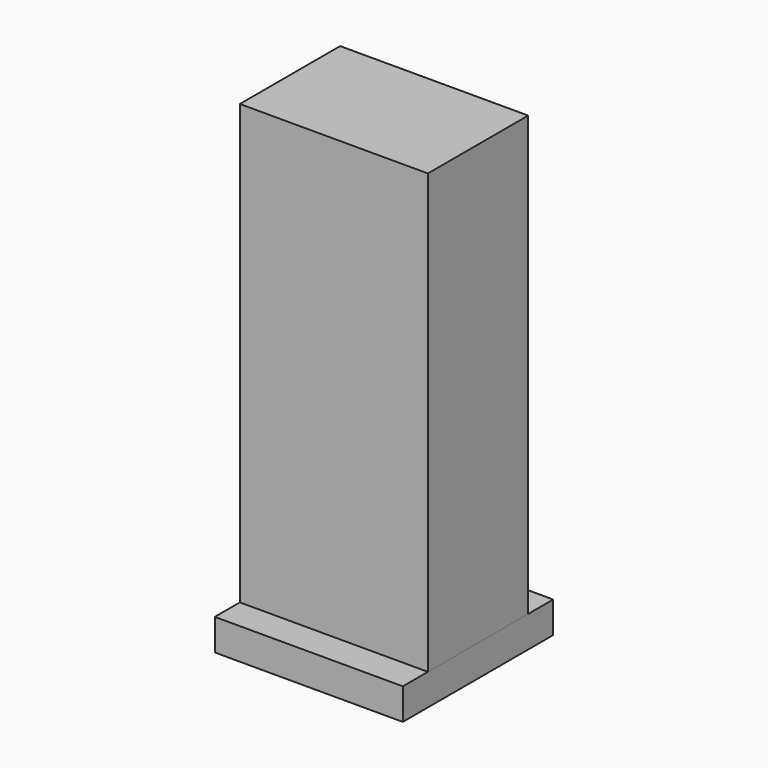
from build123d import *

# Parameters (mm, degrees)
F0_W           = 76.2
F0_H           = 76.2
F1_DEPTH       = 12.7
F2_W           = 76.2
F2_H           = 50.8
F3_DEPTH       = 177.8
F5_D           = 7.1374
F5_CBORE_D     = 11.1125
F5_CBORE_DEPTH = 6.35
F6_D           = 5.1054
F6_DEPTH       = 16.51
F6_START       = 12.7
F6_TIP         = 1.5338169022


with BuildPart() as f1:
    # F0 (on Top) → F1 (new body)
    with BuildSketch(Plane.XY):
        Rectangle(F0_W, F0_H)
    extrude(amount=F1_DEPTH)

    # F5 (through all)
    with Locations(Plane(origin=(0, 0, 0), x_dir=(1, 0, 0), z_dir=(0, 0, -1))):
        with Locations((-25.4, -19.05), (-25.4, 19.05), (25.4, -19.05), (25.4, 19.05)):
            CounterBoreHole(F5_D / 2, F5_CBORE_D / 2, F5_CBORE_DEPTH)


with BuildPart() as f3:
    # F2 (on face) → F3 (new body)
    with BuildSketch(Plane.XY.offset(12.7)):
        Rectangle(F2_W, F2_H)
    extrude(amount=F3_DEPTH)

    # F6
    # its depths count from where the whole tool has entered the part; down to there all is cleared
    with Locations(Plane(origin=(0, 0, 0), x_dir=(1, 0, 0), z_dir=(0, 0, -1)).offset(-F6_START)):
        with Locations((25.4, -19.05), (25.4, 19.05), (-25.4, -19.05), (-25.4, 19.05)):
            Hole(F6_D / 2, depth=F6_DEPTH)
            with Locations((0, 0, -(F6_DEPTH + F6_TIP / 2))):  # 118° drill point
                Cone(0, F6_D / 2, F6_TIP, mode=Mode.SUBTRACT)


solid = Compound([f1.part, f3.part])
